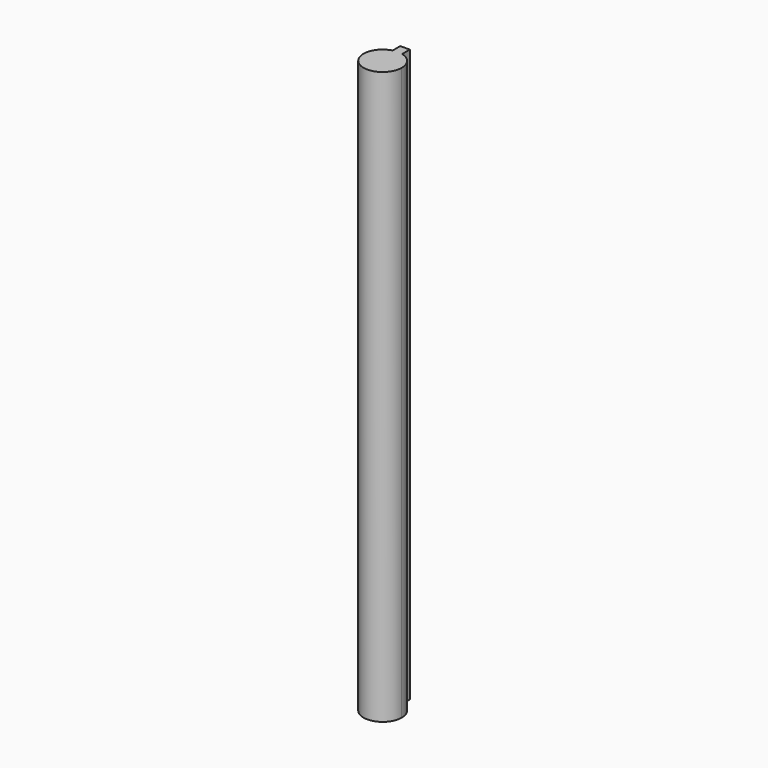
from build123d import *

# Parameters (mm, degrees)
F1_DEPTH = 76.2


with BuildPart() as f1:
    # F0 (on Top) → F1 (new body)
    with BuildSketch(Plane.XY):
        with BuildLine():
            ThreePointArc((-0.635, 2.4593444248), (-1.5554259867, -2.0080463142), (2.54, 0))
            ThreePointArc((2.54, 0), (2.0080463142, 1.5554259867), (0.635, 2.4593444248))
            Line((0.635, 2.4593444248), (-0.635, 2.4593444248))
        make_face()
        with BuildLine():
            Line((-0.635, 2.4593444248), (0.635, 2.4593444248))
            ThreePointArc((0.635, 2.4593444248), (0, 2.54), (-0.635, 2.4593444248))
        make_face()
        with BuildLine():
            ThreePointArc((-0.635, 2.4593444248), (0, 2.54), (0.635, 2.4593444248))
            Line((0.635, 2.4593444248), (0.635, 3.7293444248))
            Line((0.635, 3.7293444248), (-0.635, 3.7293444248))
            Line((-0.635, 3.7293444248), (-0.635, 2.4593444248))
        make_face()
    extrude(amount=F1_DEPTH)


solid = f1.part
